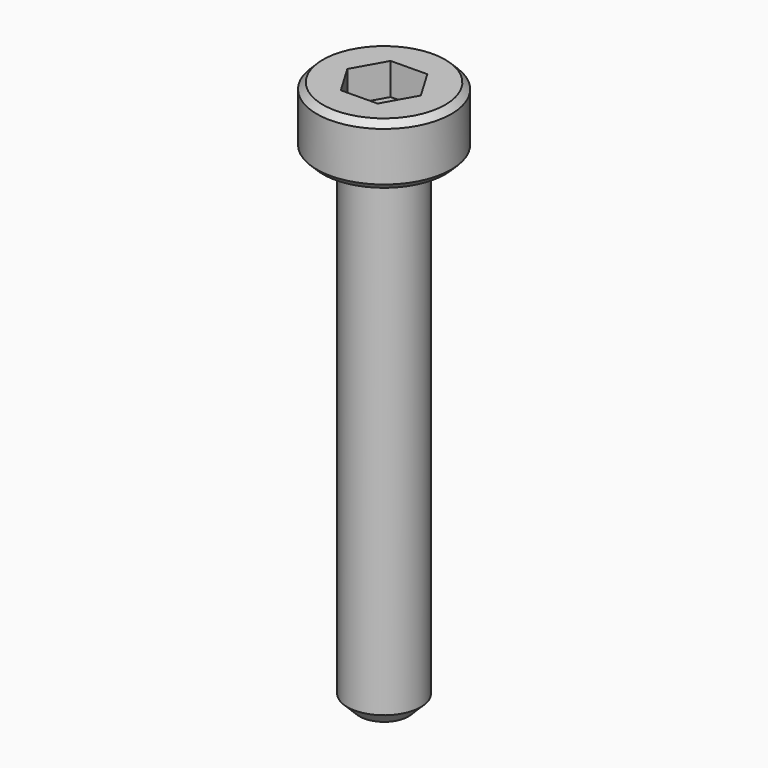
from build123d import *

# Parameters (mm, degrees)
F0_R     = 1.5
F1_DEPTH = 20
F2_SIZE  = 0.5
F0_R_2   = 2.75
F3_DEPTH = 2.5
F4_SIZE  = 0.25
F6_DEPTH = 1.3


with BuildPart() as f1:
    # F0 (on Top) → F1 (new body)
    with BuildSketch(Plane.XY):
        Circle(F0_R)
    extrude(amount=-F1_DEPTH)

    # F2
    f2_edges = [f1.edges().sort_by_distance(p)[0] for p in [
        (-1.5, 0, -20),
    ]]
    chamfer(f2_edges, length=F2_SIZE)

    # F0 (on Top) → F3 (join)
    with BuildSketch(Plane.XY):
        Circle(F0_R_2)
        Circle(F0_R, mode=Mode.SUBTRACT)
        Circle(F0_R)
    extrude(amount=F3_DEPTH)

    # F4
    f4_edges = [f1.edges().sort_by_distance(p)[0] for p in [
        (-2.75, 0, 2.5),
        (-2.75, 0, 0),
    ]]
    chamfer(f4_edges, length=F4_SIZE)

    # F5 (on face) → F6 (cut)
    with BuildSketch(Plane.XY.offset(2.5)):
        Polygon((0.75963, -1.281313), (1.489464, 0.017202), (0.729835, 1.298515), (-0.75963, 1.281313), (-1.489464, -0.017202), (-0.729835, -1.298515), align=None)
    extrude(amount=-F6_DEPTH, mode=Mode.SUBTRACT)


solid = f1.part
